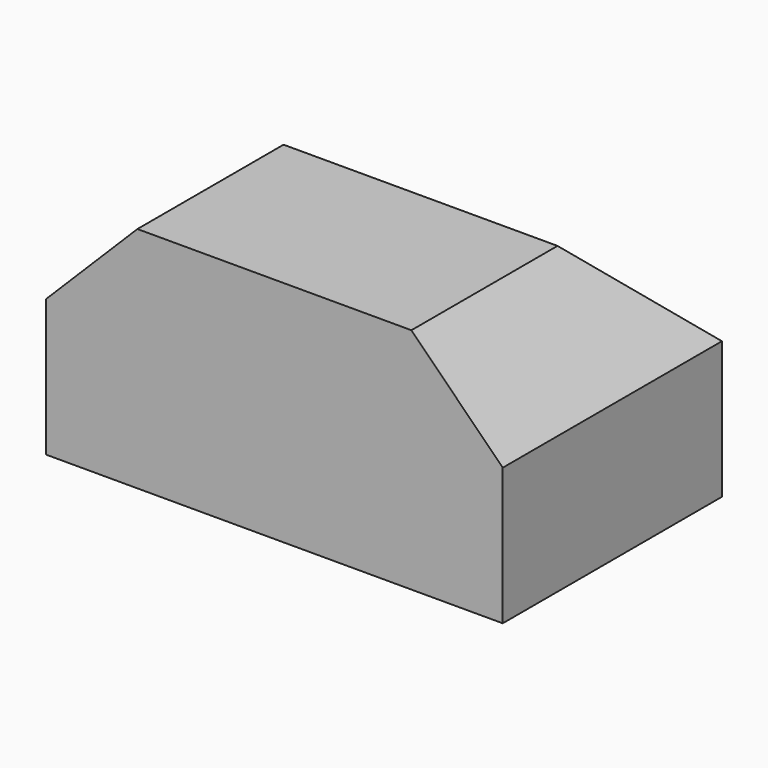
from build123d import *

# Parameters (mm, degrees)
F0_W     = 10
F0_H     = 6
F2_DEPTH = 5
F1_W     = 6
F1_H     = 4
F3_DEPTH = 3
F4_SIZE  = 2


with BuildPart() as f2:
    # F0 (on Top) → F2 (new body)
    with BuildSketch(Plane.XY):
        with Locations((-22.542964, 15.566407)):
            Rectangle(F0_W, F0_H)
    extrude(amount=F2_DEPTH)

    # F1 (on face) → F3 (cut)
    with BuildSketch(Plane.XY):
        with Locations((-22.542964, 14.620967)):
            Rectangle(F1_W, F1_H)
    extrude(amount=F3_DEPTH, mode=Mode.SUBTRACT)

    # F4
    f4_edges = [f2.edges().sort_by_distance(p)[0] for p in [
        (-27.542964, 15.566407, 5),
        (-22.542964, 18.566407, 5),
        (-17.542964, 15.566407, 5),
    ]]
    chamfer(f4_edges, length=F4_SIZE)


solid = f2.part
